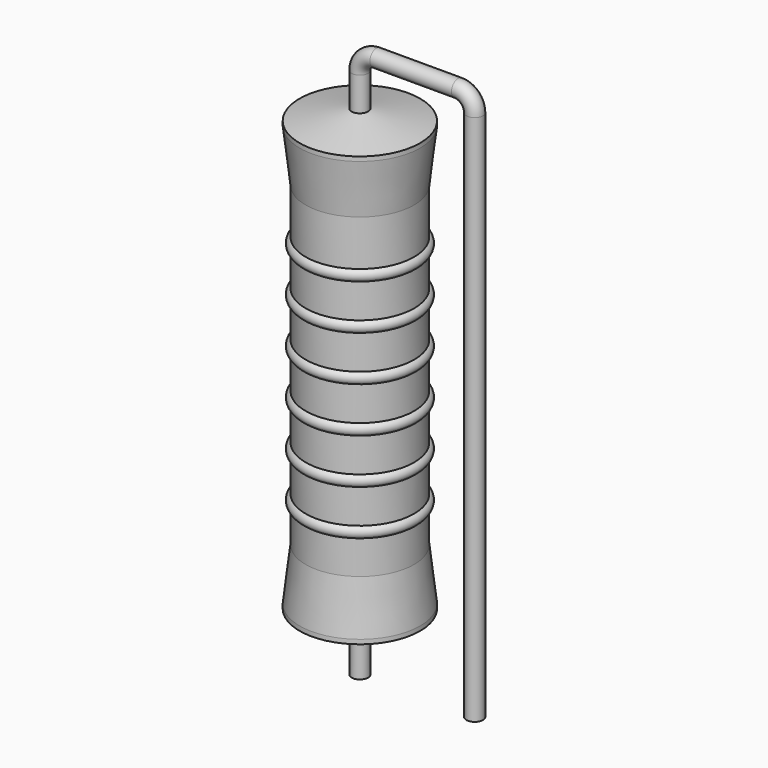
from build123d import *

# Parameters (mm, degrees)
SKETCH_R = 0.55


with BuildPart() as revolution:
    # Sketch002 → Revolution (revolve)
    with BuildSketch(Plane.XZ):
        Polygon((0, 0.1), (0, 30.1), (0.4125, 30.1), (4, 29.35), (4, 29.0575), (3.6, 25.6), (3.6, 4.6), (4, 1.1425), (4, 0.85), (0.4125, 0.1), align=None)
    revolve(axis=Axis((0, 0, 0), (0, 0, 1)))


with BuildPart() as sweep_body:
    # Sweep: sweep along a path in Sketch001
    with BuildLine(Plane.XZ) as sweep_path:
        Line((0, -3), (0, 32.3))
        ThreePointArc((0, 32.3), (0.322178, 33.077813), (1.099987, 33.4))
        Line((1.099987, 33.4), (6.52, 33.4))
        ThreePointArc((6.52, 33.4), (7.297817, 33.077817), (7.62, 32.3))
        Line((7.62, 32.3), (7.62, -3))
    # Sketch → Sweep (sweep)
    with BuildSketch(Plane.XY.offset(-2)):
        Circle(SKETCH_R)
    sweep(path=sweep_path.line)


with BuildPart() as obj1:
    # Sketch003 → Revolution001 (revolve)
    with BuildSketch(Plane.XZ):
        with BuildLine():
            Line((3.2, 24.8), (3.2, 4.6))
            Line((3.2, 4.6), (3.44, 4.6))
            Line((3.44, 4.6), (3.44, 6.8))
            ThreePointArc((3.44, 6.8), (3.84, 7.2), (3.44, 7.6))
            Line((3.44, 7.6), (3.44, 9.8))
            ThreePointArc((3.44, 9.8), (3.84, 10.2), (3.44, 10.6))
            Line((3.44, 10.6), (3.44, 12.8))
            ThreePointArc((3.44, 12.8), (3.84, 13.2), (3.44, 13.6))
            Line((3.44, 13.6), (3.44, 15.8))
            ThreePointArc((3.44, 15.8), (3.84, 16.2), (3.44, 16.6))
            Line((3.44, 16.6), (3.44, 18.8))
            ThreePointArc((3.44, 18.8), (3.84, 19.2), (3.44, 19.6))
            Line((3.44, 19.6), (3.44, 21.8))
            ThreePointArc((3.44, 21.8), (3.84, 22.2), (3.44, 22.6))
            Line((3.44, 24.8), (3.44, 22.6))
            Line((3.2, 24.8), (3.44, 24.8))
        make_face()
    revolve(axis=Axis((0, 0, 0), (0, 0, 1)))

    # obj1: union Revolution, Sweep body
    add(revolution.part)
    add(sweep_body.part)


solid = obj1.part
